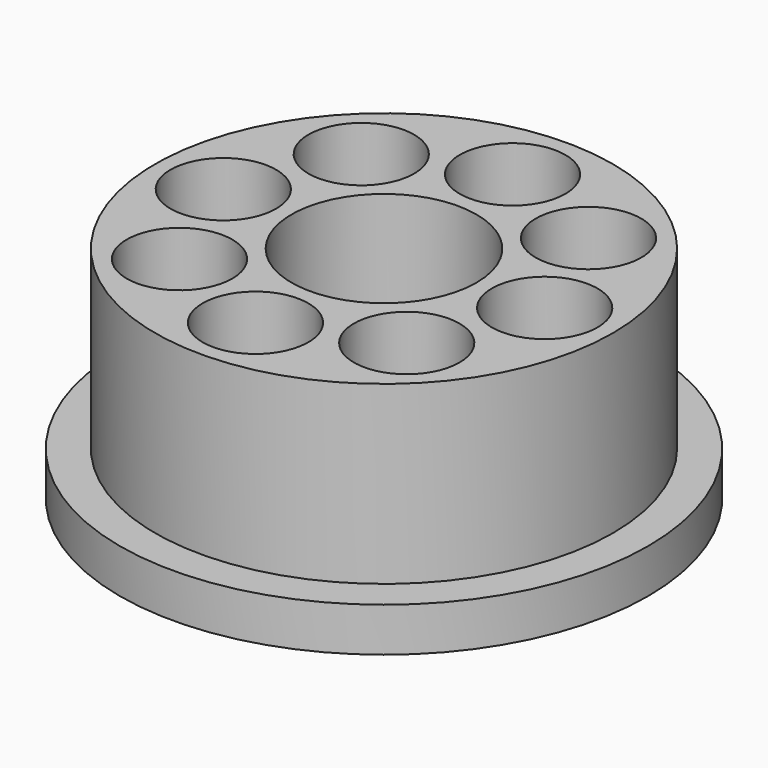
from build123d import *

# Parameters (mm, degrees)
CYLINDER001_R      = 10.5
CYLINDER001_DEPTH  = 25
CYLINDER_R         = 26
CYLINDER_DEPTH     = 25
CYLINDER002_R      = 30
CYLINDER002_DEPTH  = 5
SKETCH_R           = 6
POCKET_DEPTH       = 40
POLARPATTERN_COUNT = 8


with BuildPart() as cylinder001:
    # Cylinder001 → Cylinder001 (new body)
    with BuildSketch(Plane.XY):
        Circle(CYLINDER001_R)
    extrude(amount=CYLINDER001_DEPTH)


with BuildPart() as cylinder:
    # Cylinder → Cylinder (new body)
    with BuildSketch(Plane.XY):
        Circle(CYLINDER_R)
    extrude(amount=CYLINDER_DEPTH)


with BuildPart() as polarpattern:
    # Cylinder002 → Cylinder002 (new body)
    with BuildSketch(Plane.XY):
        Circle(CYLINDER002_R)
    extrude(amount=CYLINDER002_DEPTH)

    # Fusion: union Cylinder
    add(cylinder.part)

    # Cut: cut Cylinder001
    add(cylinder001.part, mode=Mode.SUBTRACT)

    # Sketch → Pocket (cut)
    with BuildSketch(Plane.XY.offset(25)):
        with Locations((0, 18.25)):
            Circle(SKETCH_R)
    pocket = extrude(amount=-POCKET_DEPTH, mode=Mode.SUBTRACT)

    # PolarPattern: Pocket ×8 about axis
    polarpattern_axis = Axis((0, 0, 25), (0, 0, 1))
    for i in range(1, POLARPATTERN_COUNT):
        add(pocket.rotate(polarpattern_axis, i * 360 / POLARPATTERN_COUNT), mode=Mode.SUBTRACT)


solid = polarpattern.part
